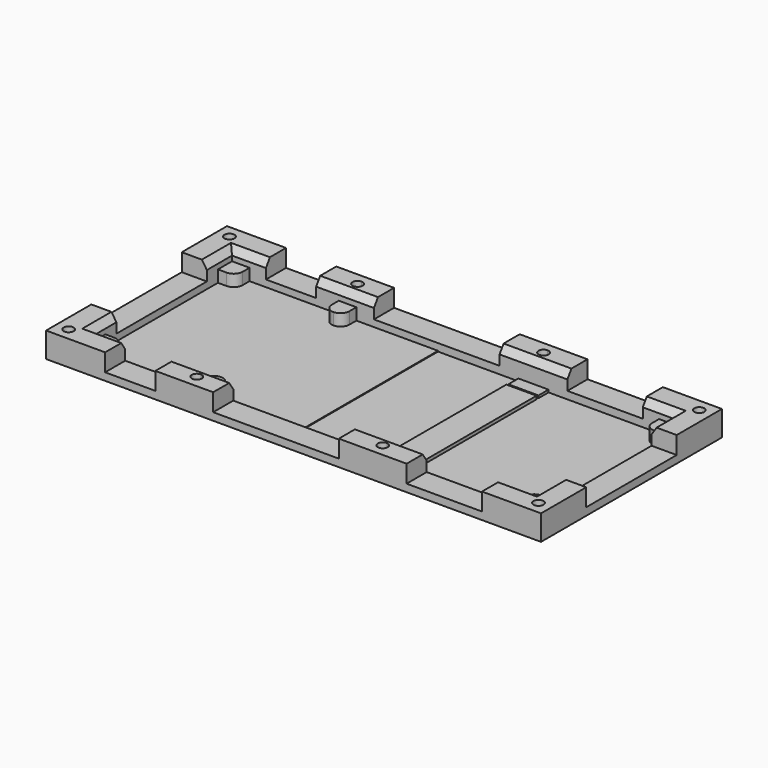
from build123d import *

# Parameters (mm, degrees)
F0_R      = 2
F1_DEPTH  = 10
F2_DEPTH  = 5
F3_SIZE2  = 3
F3_SIZE   = 2
F4_W      = 12
F4_H      = 58
F5_DEPTH  = 1.3
F7_START  = 3
F6_W      = 20
F6_H      = 30.5141843065
F6_H_2    = 45
F6_W_2    = 38.4006889146
F6_W_3    = 23
F6_H_3    = 26.5430039666
F6_W_4    = 50
F6_H_4    = 30.9126630588
F6_W_5    = 27
F6_W_6    = 30
F6_H_5    = 30.5863746506
F6_H_6    = 27.8634131846
F6_W_7    = 32.0585550834
F7_DEPTH  = 22
F8_W      = 12
F8_H      = 5
F9_DEPTH  = 1
F10_W     = 83.0906813658
F10_H     = 72
F11_DEPTH = 0.3
F12_W     = 193.8963830471
F12_H     = 86.8290178478
F13_DEPTH = 0.01


with BuildPart() as f1:
    # F0 (on Top) → F1 (new body)
    with BuildSketch(Plane.XY):
        with BuildLine():
            Line((-81.5, -35), (-88.5, -35))
            Line((-88.5, -35), (-88.5, -28))
            Line((-88.5, -28), (-88.5, 28))
            Line((-88.5, 28), (-88.5, 35))
            Line((-88.5, 35), (-81.5, 35))
            Line((-81.5, 35), (-46, 35))
            Line((-46, 35), (-42.5, 35))
            Line((-42.5, 35), (-42.5, 38))
            ThreePointArc((-42.5, 38), (-44.5, 40), (-42.5, 42))
            Line((-42.5, 42), (-42.5, 45))
            Line((-42.5, 45), (-98.5, 45))
            Line((-98.5, 45), (-98.5, -45))
            Line((-98.5, -45), (-42.5, -45))
            Line((-42.5, -45), (-42.5, -42))
            ThreePointArc((-42.5, -42), (-44.5, -40), (-42.5, -38))
            Line((-42.5, -38), (-42.5, -35))
            Line((-42.5, -35), (-46, -35))
            Line((-46, -35), (-81.5, -35))
        make_face()
        with Locations((-93.5, -40)):
            Circle(F0_R, mode=Mode.SUBTRACT)
        with Locations((-93.5, 40)):
            Circle(F0_R, mode=Mode.SUBTRACT)
        with BuildLine():
            Line((81.5, -35), (31.5, -35))
            Line((31.5, -35), (31.5, -38))
            ThreePointArc((31.5, -38), (32.9142135624, -38.5857864376), (33.5, -40))
            ThreePointArc((33.5, -40), (32.9142135624, -41.4142135624), (31.5, -42))
            Line((31.5, -42), (31.5, -45))
            Line((31.5, -45), (98.5, -45))
            Line((98.5, -45), (98.5, 45))
            Line((98.5, 45), (31.5, 45))
            Line((31.5, 45), (31.5, 42))
            ThreePointArc((31.5, 42), (32.9142135624, 41.4142135624), (33.5, 40))
            ThreePointArc((33.5, 40), (32.9142135624, 38.5857864376), (31.5, 38))
            Line((31.5, 38), (31.5, 35))
            Line((31.5, 35), (81.5, 35))
            Line((81.5, 35), (88.5, 35))
            Line((88.5, 35), (88.5, 28))
            Line((88.5, 28), (88.5, -28))
            Line((88.5, -28), (88.5, -35))
            Line((88.5, -35), (81.5, -35))
        make_face()
        with Locations((93.5, -40)):
            Circle(F0_R, mode=Mode.SUBTRACT)
        with Locations((93.5, 40)):
            Circle(F0_R, mode=Mode.SUBTRACT)
        with BuildLine():
            Line((-39, 35), (31.5, 35))
            Line((31.5, 35), (31.5, 38))
            ThreePointArc((31.5, 38), (29.5, 40), (31.5, 42))
            Line((31.5, 42), (31.5, 45))
            Line((31.5, 45), (-42.5, 45))
            Line((-42.5, 45), (-42.5, 42))
            ThreePointArc((-42.5, 42), (-41.0857864376, 41.4142135624), (-40.5, 40))
            ThreePointArc((-40.5, 40), (-41.0857864376, 38.5857864376), (-42.5, 38))
            Line((-42.5, 38), (-42.5, 35))
            Line((-42.5, 35), (-39, 35))
        make_face()
        with BuildLine():
            Line((-39, -35), (-42.5, -35))
            Line((-42.5, -35), (-42.5, -38))
            ThreePointArc((-42.5, -38), (-41.0857864376, -38.5857864376), (-40.5, -40))
            ThreePointArc((-40.5, -40), (-41.0857864376, -41.4142135624), (-42.5, -42))
            Line((-42.5, -42), (-42.5, -45))
            Line((-42.5, -45), (31.5, -45))
            Line((31.5, -45), (31.5, -42))
            ThreePointArc((31.5, -42), (29.5, -40), (31.5, -38))
            Line((31.5, -38), (31.5, -35))
            Line((31.5, -35), (-39, -35))
        make_face()
    extrude(amount=F1_DEPTH)

    # F0 (on Top) → F2 (join)
    with BuildSketch(Plane.XY):
        with BuildLine():
            Line((-88.5, -28), (-88.5, -35))
            Line((-88.5, -35), (-81.5, -35))
            Line((-81.5, -35), (-81.5, -31.5))
            ThreePointArc((-81.5, -31.5), (-82.5251262658, -29.0251262658), (-85, -28))
            Line((-85, -28), (-88.5, -28))
        make_face()
        with BuildLine():
            Line((-46, -31.5), (-46, -35))
            Line((-46, -35), (-42.5, -35))
            ThreePointArc((-42.5, -35), (-44.9748737342, -33.9748737342), (-46, -31.5))
        make_face()
        with BuildLine():
            ThreePointArc((-39, -31.5), (-40.0251262658, -33.9748737342), (-42.5, -35))
            Line((-42.5, -35), (-39, -35))
            Line((-39, -35), (-39, -31.5))
        make_face()
        with BuildLine():
            ThreePointArc((-46, -31.5), (-44.9748737342, -33.9748737342), (-42.5, -35))
            Line((-42.5, -35), (-42.5, -28))
            ThreePointArc((-42.5, -28), (-44.9748737342, -29.0251262658), (-46, -31.5))
        make_face()
        with BuildLine():
            Line((-42.5, -28), (-42.5, -35))
            ThreePointArc((-42.5, -35), (-40.0251262658, -33.9748737342), (-39, -31.5))
            ThreePointArc((-39, -31.5), (-40.0251262658, -29.0251262658), (-42.5, -28))
        make_face()
        with BuildLine():
            Line((-88.5, 35), (-88.5, 28))
            Line((-88.5, 28), (-85, 28))
            ThreePointArc((-85, 28), (-82.5251262658, 29.0251262658), (-81.5, 31.5))
            Line((-81.5, 31.5), (-81.5, 35))
            Line((-81.5, 35), (-88.5, 35))
        make_face()
        with BuildLine():
            Line((-42.5, 35), (-42.5, 28))
            ThreePointArc((-42.5, 28), (-40.0251262658, 29.0251262658), (-39, 31.5))
            ThreePointArc((-39, 31.5), (-40.0251262658, 33.9748737342), (-42.5, 35))
        make_face()
        with BuildLine():
            Line((-39, 35), (-42.5, 35))
            ThreePointArc((-42.5, 35), (-40.0251262658, 33.9748737342), (-39, 31.5))
            Line((-39, 31.5), (-39, 35))
        make_face()
        with BuildLine():
            Line((-42.5, 35), (-46, 35))
            Line((-46, 35), (-46, 31.5))
            ThreePointArc((-46, 31.5), (-44.9748737342, 33.9748737342), (-42.5, 35))
        make_face()
        with BuildLine():
            ThreePointArc((-46, 31.5), (-44.9748737342, 29.0251262658), (-42.5, 28))
            Line((-42.5, 28), (-42.5, 35))
            ThreePointArc((-42.5, 35), (-44.9748737342, 33.9748737342), (-46, 31.5))
        make_face()
        with BuildLine():
            Line((81.5, -31.5), (81.5, -35))
            Line((81.5, -35), (88.5, -35))
            Line((88.5, -35), (88.5, -28))
            Line((88.5, -28), (85, -28))
            ThreePointArc((85, -28), (82.5251262658, -29.0251262658), (81.5, -31.5))
        make_face()
        with BuildLine():
            Line((88.5, 35), (81.5, 35))
            Line((81.5, 35), (81.5, 31.5))
            ThreePointArc((81.5, 31.5), (82.5251262658, 29.0251262658), (85, 28))
            Line((85, 28), (88.5, 28))
            Line((88.5, 28), (88.5, 35))
        make_face()
    extrude(amount=F2_DEPTH)

    # F3
    f3_edges = [f1.edges().sort_by_distance(p)[0] for p in [
        (-88.5, 0, 10),
        (0, -35, 10),
        (88.5, 0, 10),
        (0, 35, 10),
    ]]
    f3_side = f1.faces().sort_by_distance((-90.665849, 0, 10))[0]
    chamfer(f3_edges, length=F3_SIZE, length2=F3_SIZE2, reference=f3_side)

    # F6 (on Top) → F7 (cut)
    with BuildSketch(Plane.XY.offset(F7_START)):
        with Locations((-65, 37.7570921533)):
            Rectangle(F6_W, F6_H)
        with Locations((-65, 0)):
            Rectangle(F6_W, F6_H_2)
        with Locations((-94.2003444573, 0)):
            Rectangle(F6_W_2, F6_H_2)
        with Locations((-43.5, 0)):
            Rectangle(F6_W_3, F6_H_2)
        with Locations((-65, -35.7715019833)):
            Rectangle(F6_W, F6_H_3)
        with Locations((-7, 0)):
            Rectangle(F6_W_4, F6_H_2)
        with Locations((-7, 37.9563315294)):
            Rectangle(F6_W_4, F6_H_4)
        with Locations((-7, -35.7715019833)):
            Rectangle(F6_W_4, F6_H_3)
        with Locations((31.5, 0)):
            Rectangle(F6_W_5, F6_H_2)
        with Locations((60, 0)):
            Rectangle(F6_W_6, F6_H_2)
        with Locations((60, 37.7931873253)):
            Rectangle(F6_W_6, F6_H_5)
        with Locations((60, -36.4317065923)):
            Rectangle(F6_W_6, F6_H_6)
        with Locations((91.0292775417, 0)):
            Rectangle(F6_W_7, F6_H_2)
    extrude(amount=F7_DEPTH, mode=Mode.SUBTRACT)

    # F8 (on Top) → F9 (join)
    with BuildSketch(Plane.XY):
        with Locations((31.5, 32.5)):
            Rectangle(F8_W, F8_H)
        with Locations((31.5, -32.5)):
            Rectangle(F8_W, F8_H)
    extrude(amount=F9_DEPTH)


with BuildPart() as f5:
    # F4 (on Top) → F5 (new body)
    with BuildSketch(Plane.XY):
        with Locations((31.5, 0)):
            Rectangle(F4_W, F4_H)
    extrude(amount=F5_DEPTH)


with BuildPart() as f11:
    # F10 (on Top) → F11 (new body)
    with BuildSketch(Plane.XY):
        with Locations((-48.0453406829, 0)):
            Rectangle(F10_W, F10_H)
    extrude(amount=F11_DEPTH)


with BuildPart() as f13:
    # F12 (on Top) → F13 (new body)
    with BuildSketch(Plane.XY):
        with Locations((-0.1632124186, 0.7344540209)):
            Rectangle(F12_W, F12_H)
    extrude(amount=F13_DEPTH)


solid = Compound([f1.part, f5.part, f11.part, f13.part])
